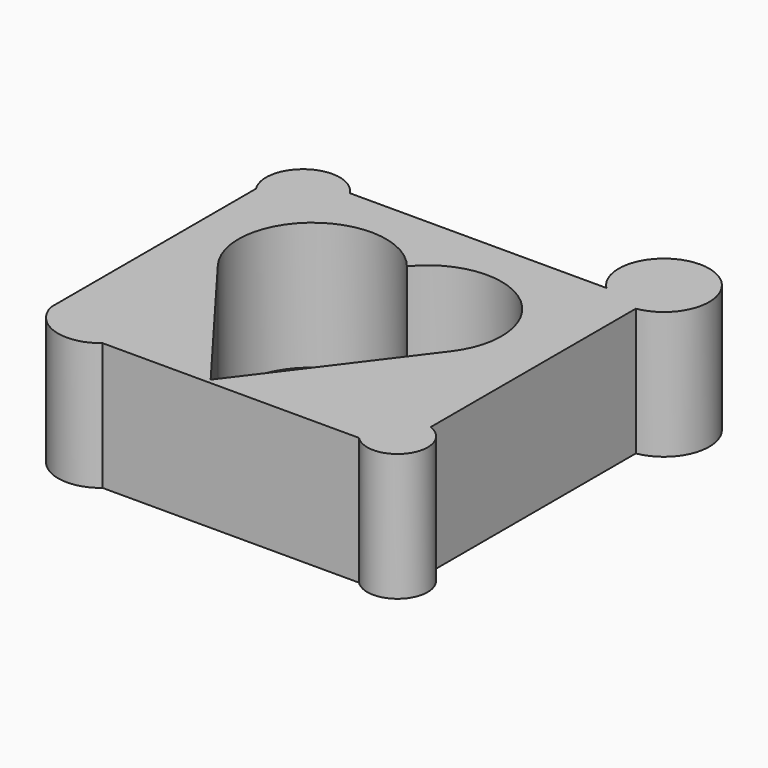
from build123d import *

# Parameters (mm, degrees)
F1_DEPTH = 25.4


with BuildPart() as f1:
    # F0 (on Top) → F1 (new body)
    with BuildSketch(Plane.XY):
        with BuildLine():
            Line((28.765002, 27.541084), (-22.328841, 27.541084))
            ThreePointArc((-22.328841, 27.541084), (-32.479934, 29.740488), (-34.679338, 19.589394))
            Line((-34.679338, 19.589394), (-34.679338, -31.504449))
            ThreePointArc((-34.679338, -31.504449), (-28.970599, -37.555721), (-20.806175, -35.958916))
            Line((-20.806175, -35.958916), (30.287668, -35.958916))
            ThreePointArc((30.287668, -35.958916), (39.638886, -35.073151), (36.716696, -26.146188))
            Line((36.716696, -26.146188), (36.716696, 24.947655))
            ThreePointArc((36.716696, 24.947655), (38.014701, 42.414486), (28.765002, 27.541084))
        make_face()
        with BuildLine():
            Line((23.246409, -4.208306), (0, -35.057332))
            Line((0, -35.057332), (-23.246409, -4.208306))
            ThreePointArc((-23.246409, -4.208306), (-20.517541, 16.272236), (0, 13.837106))
            ThreePointArc((0, 13.837106), (20.517541, 16.272236), (23.246409, -4.208306))
        make_face(mode=Mode.SUBTRACT)
    extrude(amount=F1_DEPTH)


solid = f1.part
